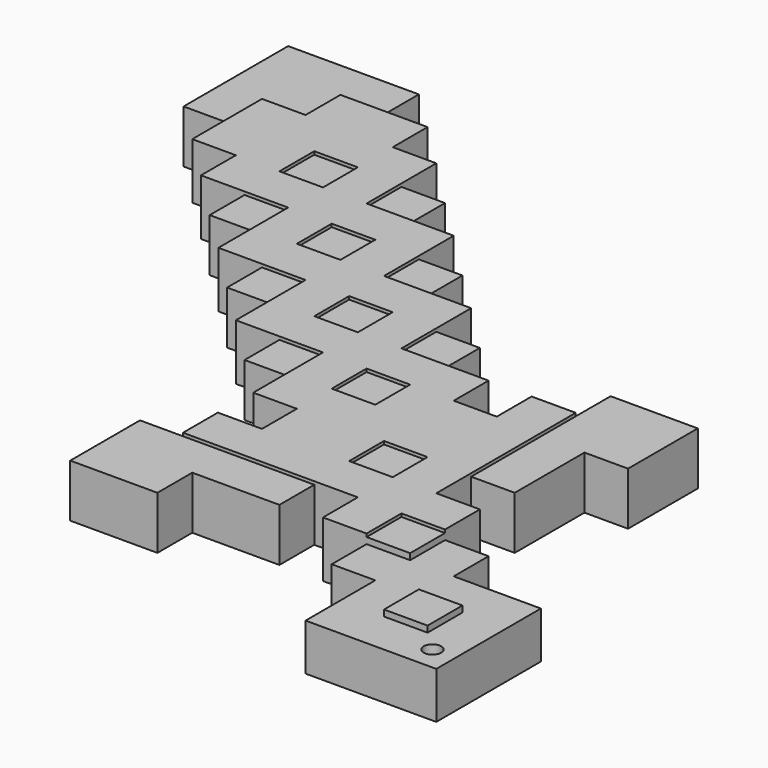
from build123d import *

# Parameters (mm, degrees)
F0_W     = 17.78
F0_H     = 17.78
F0_W_2   = 35.56
F0_W_3   = 17.9974469995
F0_H_2   = 35.56
F1_DEPTH = 19.05
F2_DEPTH = 21.59
F3_DEPTH = 3.81
F4_D     = 7.1374


with BuildPart() as f1:
    # F0 (on Top) → F1 (new body)
    with BuildSketch(Plane.XY):
        Polygon((-134.7540525866, 124.46), (-134.7540525866, 124.2569237947), (-117.5547838211, 124.2569237947), (-117.5547838211, 142.24), (-134.7540525866, 142.24), align=None)
        with Locations((-161.4240525866, 151.13)):
            Rectangle(F0_W, F0_H)
        with Locations((-63.6340525866, 26.67)):
            Rectangle(F0_W_2, F0_H)
        with Locations((-179.2040525866, 168.91)):
            Rectangle(F0_W, F0_H)
        with Locations((-90.3040525866, 133.35)):
            Rectangle(F0_W, F0_H)
        Polygon((-10.2940525866, 106.68), (-10.2940525866, 88.9), (7.4859474134, 88.9), (7.4859474134, 106.7038958168), (-10.2940525866, 106.7038958168), align=None)
        with Locations((-72.5240525866, 97.79)):
            Rectangle(F0_W, F0_H)
        with Locations((16.3759474134, -8.89)):
            Rectangle(F0_W, F0_H)
        with Locations((-90.4127760863, 26.67)):
            Rectangle(F0_W_3, F0_H)
        with Locations((-72.5240525866, 115.57)):
            Rectangle(F0_W, F0_H)
        with Locations((-19.1840525866, 44.45)):
            Rectangle(F0_W, F0_H)
        with Locations((-143.6440525866, 151.13)):
            Rectangle(F0_W, F0_H)
        with Locations((-143.6440525866, 186.69)):
            Rectangle(F0_W, F0_H)
        with Locations((-108.0840525866, 151.13)):
            Rectangle(F0_W, F0_H)
        with Locations((-1.4040525866, -8.89)):
            Rectangle(F0_W, F0_H)
        Polygon((60.8259474134, 0), (25.2659474134, 0), (25.2659474134, -17.78), (7.4859474134, -17.78), (7.4859474134, -53.34), (60.8259474134, -53.34), align=None)
        with Locations((34.1559474134, -26.67)):
            Rectangle(F0_W, F0_H, mode=Mode.SUBTRACT)
        with Locations((-161.4240525866, 133.35)):
            Rectangle(F0_W, F0_H)
        with Locations((-108.0840525866, 115.57)):
            Rectangle(F0_W, F0_H)
        Polygon((-28.0740525866, 0), (-10.2940525866, 0), (-10.2940525866, 17.78), (7.4859474134, 17.78), (7.4859474134, 35.56), (-10.1443827152, 35.56), (-10.1443827152, 17.9467629641), (-28.0740525866, 17.9467629641), (-28.0740525866, 17.78), align=None)
        with Locations((-90.3040525866, 62.23)):
            Rectangle(F0_W, F0_H)
        with Locations((-161.4240525866, 204.47)):
            Rectangle(F0_W, F0_H)
        Polygon((-10.1443827152, 17.9467629641), (-10.1443827152, 35.56), (-10.2940525866, 35.56), (-28.0740525866, 35.56), (-28.0740525866, 17.9467629641), align=None)
        with Locations((-54.7440525866, 80.01)):
            Rectangle(F0_W, F0_H)
        with Locations((-196.9840525866, 168.91)):
            Rectangle(F0_W, F0_H)
        with Locations((-143.6440525866, 168.91)):
            Rectangle(F0_W, F0_H)
        with Locations((-108.0840525866, 80.01)):
            Rectangle(F0_W, F0_H)
        with Locations((-161.4240525866, 168.91)):
            Rectangle(F0_W, F0_H)
        with Locations((-179.2040525866, 186.69)):
            Rectangle(F0_W, F0_H)
        with Locations((-143.6440525866, 133.35)):
            Rectangle(F0_W, F0_H)
        with Locations((-90.4127760863, 8.89)):
            Rectangle(F0_W_3, F0_H)
        Polygon((-45.8540525866, 17.78), (-28.0740525866, 17.78), (-28.0740525866, 17.9467629641), (-28.0740525866, 35.56), (-45.8540525866, 35.56), align=None)
        with Locations((-54.7440525866, 97.79)):
            Rectangle(F0_W, F0_H)
        with Locations((-72.5240525866, 62.23)):
            Rectangle(F0_W, F0_H)
        with Locations((-196.9840525866, 204.47)):
            Rectangle(F0_W, F0_H)
        with Locations((34.1559474134, -26.67)):
            Rectangle(F0_W, F0_H)
        with Locations((-63.6340525866, 8.89)):
            Rectangle(F0_W_2, F0_H)
        with Locations((-214.7640525866, 222.25)):
            Rectangle(F0_W, F0_H)
        with Locations((-72.5240525866, 80.01)):
            Rectangle(F0_W, F0_H)
        with Locations((-179.2040525866, 222.25)):
            Rectangle(F0_W, F0_H)
        Polygon((-152.5340525866, 106.68), (-134.7540525866, 106.68), (-134.7540525866, 124.2569237947), (-134.7540525866, 124.46), (-152.5340525866, 124.46), align=None)
        with Locations((-161.4240525866, 186.69)):
            Rectangle(F0_W, F0_H)
        with Locations((-1.4040525866, 71.12)):
            Rectangle(F0_W, F0_H_2)
        with Locations((-125.8640525866, 97.79)):
            Rectangle(F0_W, F0_H)
        with Locations((-90.3040525866, 115.57)):
            Rectangle(F0_W, F0_H)
        with Locations((-1.4040525866, 8.89)):
            Rectangle(F0_W, F0_H)
        with Locations((-90.3040525866, 97.79)):
            Rectangle(F0_W, F0_H)
        Polygon((-99.4114995861, 0), (-99.4114995861, 17.78), (-116.9740525866, 17.78), (-116.9740525866, -17.78), (-81.4140525866, -17.78), (-81.4140525866, 0), align=None)
        Polygon((-28.0740525866, 88.9), (-10.2940525866, 88.9), (-10.2940525866, 106.68), (-28.2914995861, 106.68), (-28.2914995861, 88.9), align=None)
        with Locations((-196.9840525866, 222.25)):
            Rectangle(F0_W, F0_H)
        with Locations((-125.8640525866, 168.91)):
            Rectangle(F0_W, F0_H)
        Polygon((-241.4340525866, 195.58), (-223.6540525866, 195.58), (-223.6540525866, 213.36), (-223.6540525866, 231.14), (-205.8740525866, 231.14), (-188.0940525866, 231.14), (-188.0940525866, 248.92), (-223.6540525866, 248.92), (-241.4340525866, 248.92), (-241.4340525866, 231.14), align=None)
        with Locations((-90.3040525866, 80.01)):
            Rectangle(F0_W, F0_H)
        with Locations((-214.7640525866, 204.47)):
            Rectangle(F0_W, F0_H)
        with Locations((-179.2040525866, 204.47)):
            Rectangle(F0_W, F0_H)
        with Locations((-108.0840525866, 97.79)):
            Rectangle(F0_W, F0_H)
        with Locations((-179.2040525866, 151.13)):
            Rectangle(F0_W, F0_H)
        Polygon((7.4859474134, 106.7038958168), (7.4859474134, 88.9), (25.2659474134, 88.9), (25.2659474134, 124.46), (-10.2940525866, 124.46), (-10.2940525866, 106.7038958168), align=None)
        with Locations((-54.7440525866, 62.23)):
            Rectangle(F0_W, F0_H)
        with Locations((-196.9840525866, 186.69)):
            Rectangle(F0_W, F0_H)
        with Locations((-36.9640525866, 44.45)):
            Rectangle(F0_W, F0_H)
        Polygon((-81.4140525866, 35.56), (-45.8540525866, 35.56), (-45.8540525866, 53.34), (-63.6340525866, 53.34), (-81.4140525866, 53.34), align=None)
        Polygon((-45.8540525866, 53.34), (-28.0740525866, 53.34), (-28.0740525866, 88.9), (-28.2914995861, 88.9), (-45.8540525866, 88.9), (-45.8540525866, 71.12), align=None)
        with Locations((-19.1840525866, 71.12)):
            Rectangle(F0_W, F0_H_2)
        Polygon((-117.5547838211, 142.24), (-116.9740525866, 142.24), (-116.9740525866, 160.02), (-134.7540525866, 160.02), (-134.7540525866, 142.24), align=None)
        Polygon((-134.7540525866, 106.68), (-116.9740525866, 106.68), (-116.9740525866, 124.46), (-99.1940525866, 124.46), (-99.1940525866, 142.24), (-116.9740525866, 142.24), (-117.5547838211, 142.24), (-117.5547838211, 124.2569237947), (-134.7540525866, 124.2569237947), align=None)
        with Locations((16.3759474134, 8.89)):
            Rectangle(F0_W, F0_H)
        with Locations((-214.7640525866, 186.69)):
            Rectangle(F0_W, F0_H)
    extrude(amount=F1_DEPTH)

    # F0 (on Top) → F2 (join)
    with BuildSketch(Plane.XY):
        with Locations((34.1559474134, -26.67)):
            Rectangle(F0_W, F0_H)
        with Locations((-1.4040525866, 8.89)):
            Rectangle(F0_W, F0_H)
        with Locations((-36.9640525866, 44.45)):
            Rectangle(F0_W, F0_H)
        Polygon((-10.2940525866, 106.68), (-10.2940525866, 88.9), (7.4859474134, 88.9), (7.4859474134, 106.7038958168), (-10.2940525866, 106.7038958168), align=None)
        Polygon((7.4859474134, 106.7038958168), (7.4859474134, 88.9), (25.2659474134, 88.9), (25.2659474134, 124.46), (-10.2940525866, 124.46), (-10.2940525866, 106.7038958168), align=None)
        with Locations((-1.4040525866, 71.12)):
            Rectangle(F0_W, F0_H_2)
        with Locations((-63.6340525866, 8.89)):
            Rectangle(F0_W_2, F0_H)
        Polygon((-99.4114995861, 0), (-99.4114995861, 17.78), (-116.9740525866, 17.78), (-116.9740525866, -17.78), (-81.4140525866, -17.78), (-81.4140525866, 0), align=None)
        with Locations((-90.4127760863, 8.89)):
            Rectangle(F0_W_3, F0_H)
        with Locations((-72.5240525866, 80.01)):
            Rectangle(F0_W, F0_H)
        with Locations((-108.0840525866, 115.57)):
            Rectangle(F0_W, F0_H)
        with Locations((-143.6440525866, 151.13)):
            Rectangle(F0_W, F0_H)
        with Locations((-179.2040525866, 186.69)):
            Rectangle(F0_W, F0_H)
        with Locations((-214.7640525866, 222.25)):
            Rectangle(F0_W, F0_H)
        Polygon((-241.4340525866, 195.58), (-223.6540525866, 195.58), (-223.6540525866, 213.36), (-223.6540525866, 231.14), (-205.8740525866, 231.14), (-188.0940525866, 231.14), (-188.0940525866, 248.92), (-223.6540525866, 248.92), (-241.4340525866, 248.92), (-241.4340525866, 231.14), align=None)
        with Locations((-143.6440525866, 186.69)):
            Rectangle(F0_W, F0_H)
        with Locations((-179.2040525866, 151.13)):
            Rectangle(F0_W, F0_H)
        with Locations((-108.0840525866, 151.13)):
            Rectangle(F0_W, F0_H)
        Polygon((-152.5340525866, 106.68), (-134.7540525866, 106.68), (-134.7540525866, 124.2569237947), (-134.7540525866, 124.46), (-152.5340525866, 124.46), align=None)
        with Locations((-72.5240525866, 115.57)):
            Rectangle(F0_W, F0_H)
        with Locations((-108.0840525866, 80.01)):
            Rectangle(F0_W, F0_H)
    extrude(amount=F2_DEPTH)

    # F3 (add): a face of the model
    f3_faces = [f1.faces().sort_by_distance(p)[0] for p in [
        (-90.3040525866, 138.9711867719, 19.05),
    ]]
    extrude(f3_faces, amount=F3_DEPTH)

    # F4 (through all)
    with Locations(Plane(origin=(0, 0, 0), x_dir=(1, 0, 0), z_dir=(0, 0, -1))):
        with Locations((51.5112578869, 43.6358898878)):
            Hole(F4_D / 2)


solid = f1.part
